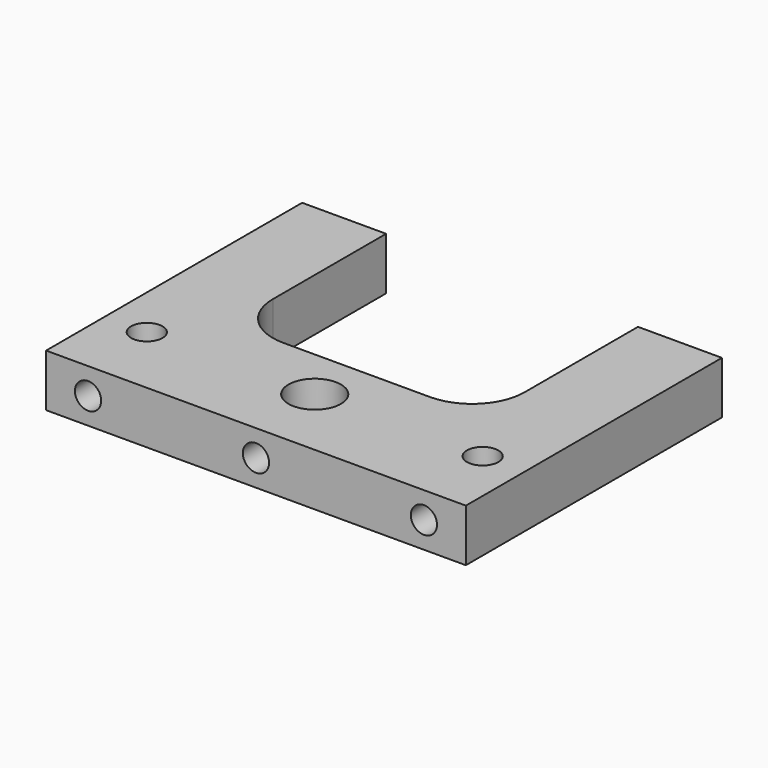
from build123d import *

# Parameters (mm, degrees)
F1_DEPTH       = 5
F2_R           = 5
F3_D           = 3
F6_D           = 2.5
F6_DEPTH       = 4.5
F6_TIP         = 0.7510757738
F6_ON_F5_D     = 2.5
F6_ON_F5_DEPTH = 4.5
F6_ON_F5_TIP   = 0.7510757738
F7_D           = 5
F8_D           = 2.5
F8_DEPTH       = 6
F8_TIP         = 0.7510757738


with BuildPart() as f1:
    # F0 (on Top) → F1 (new body)
    with BuildSketch(Plane.XY):
        Polygon((-20, -15.25), (20, -15.25), (20, 15.25), (12, 15.25), (12, -3.25), (-12, -3.25), (-12, 15.25), (-20, 15.25), align=None)
    extrude(amount=-F1_DEPTH)

    # F2
    f2_edges = [f1.edges().sort_by_distance(p)[0] for p in [
        (-12, -3.25, -2.5),
        (12, -3.25, -2.5),
    ]]
    fillet(f2_edges, radius=F2_R)

    # F3 (through all)
    with Locations(Plane.XY):
        with Locations((-16, -8.25), (16, -8.25)):
            Hole(F3_D / 2)

    # F6
    with Locations(Plane(origin=(0, 15.25, 0), x_dir=(-1, 0, 0), z_dir=(0, 1, 0))):
        with Locations((-16, -2.5), (16, -2.5)):
            Hole(F6_D / 2, depth=F6_DEPTH)
            with Locations((0, 0, -(F6_DEPTH + F6_TIP / 2))):  # 118° drill point
                Cone(0, F6_D / 2, F6_TIP, mode=Mode.SUBTRACT)

    # F6 on F5
    with Locations(Plane.XZ.offset(15.25)):
        with Locations((-16, -2.5), (16, -2.5)):
            Hole(F6_ON_F5_D / 2, depth=F6_ON_F5_DEPTH)
            with Locations((0, 0, -(F6_ON_F5_DEPTH + F6_ON_F5_TIP / 2))):  # 118° drill point
                Cone(0, F6_ON_F5_D / 2, F6_ON_F5_TIP, mode=Mode.SUBTRACT)

    # F7 (through all)
    with Locations(Plane.XY):
        with Locations((0, -8.25)):
            Hole(F7_D / 2)

    # F8
    with Locations(Plane.XZ.offset(15.25)):
        with Locations((0, -2.5)):
            Hole(F8_D / 2, depth=F8_DEPTH)
            with Locations((0, 0, -(F8_DEPTH + F8_TIP / 2))):  # 118° drill point
                Cone(0, F8_D / 2, F8_TIP, mode=Mode.SUBTRACT)


solid = f1.part
